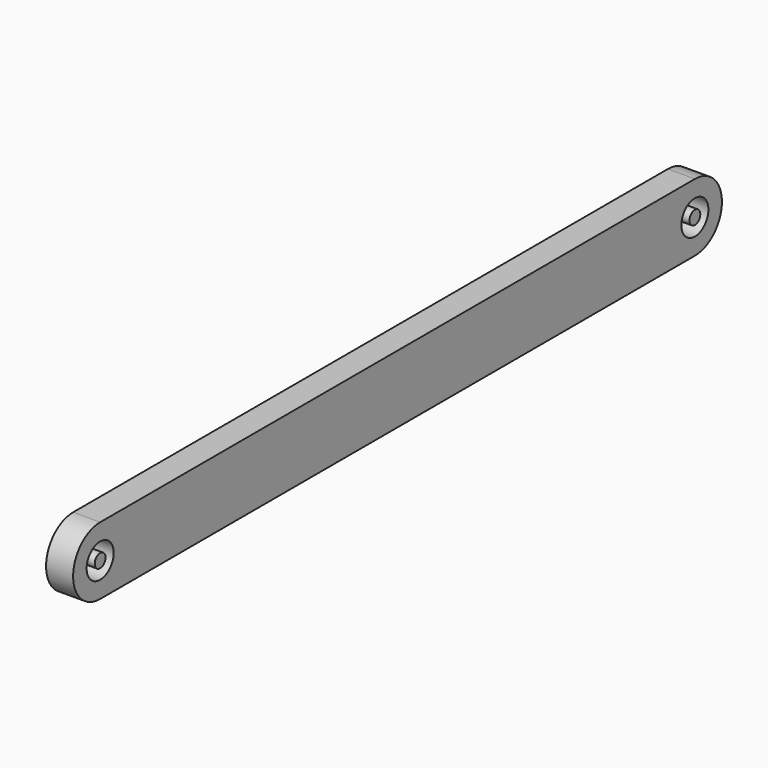
from build123d import *

# Parameters (mm, degrees)
F0_R     = 31.75
F1_DEPTH = 50.8
F2_R     = 12.7
F3_DEPTH = 50.8


with BuildPart() as f1:
    # F0 (on Right) → F1 (new body)
    with BuildSketch(Plane.YZ):
        with BuildLine():
            ThreePointArc((0, 127), (-63.5, 63.5), (0, 0))
            Line((0, 0), (1397, 0))
            ThreePointArc((1397, 0), (1460.5, 63.5), (1397, 127))
            Line((1397, 127), (0, 127))
        make_face()
        with Locations((0, 63.5)):
            Circle(F0_R, mode=Mode.SUBTRACT)
        with Locations((1397, 63.5)):
            Circle(F0_R, mode=Mode.SUBTRACT)
    extrude(amount=F1_DEPTH)


with BuildPart() as f3:
    # F2 (on face) → F3 (new body)
    with BuildSketch(Plane.YZ.offset(50.8)):
        with Locations((0, 63.5)):
            Circle(F2_R)
        with Locations((1397, 63.5)):
            Circle(F2_R)
    extrude(amount=-F3_DEPTH)


solid = Compound([f1.part, f3.part])
